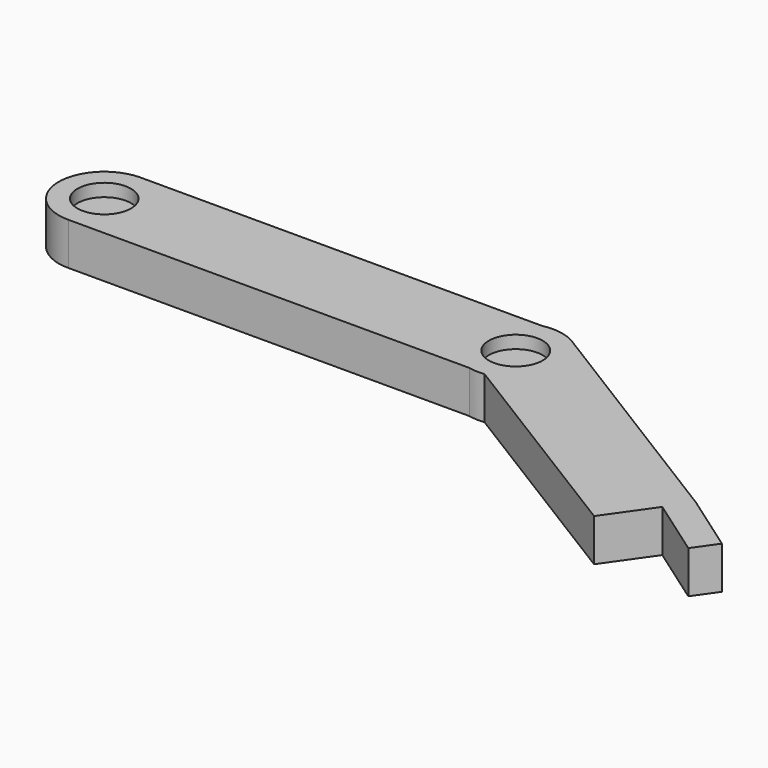
from build123d import *

# Parameters (mm, degrees)
F0_R     = 1.603882
F0_R_2   = 1.61137
F1_DEPTH = 2.54
F2_DEPTH = 1.778


with BuildPart() as f1:
    # F0 (on Top) → F1 (new body)
    with BuildSketch(Plane.XY):
        with BuildLine():
            Line((-60.266762, 42.779693), (-60.404075, 42.779693))
            ThreePointArc((-60.404075, 42.779693), (-63.060503, 40.009018), (-60.311945, 37.329712))
            ThreePointArc((-60.311945, 37.329712), (-58.399937, 38.136201), (-57.609945, 40.055084))
            ThreePointArc((-57.609945, 40.055084), (-58.384095, 41.957857), (-60.266762, 42.779693))
        make_face()
        with Locations((-60.335419, 40.055084)):
            Circle(F0_R, mode=Mode.SUBTRACT)
        with BuildLine():
            ThreePointArc((-60.266762, 42.779693), (-60.335419, 42.780558), (-60.404075, 42.779693))
            Line((-60.404075, 42.779693), (-60.266762, 42.779693))
        make_face()
        with BuildLine():
            ThreePointArc((-57.609945, 40.055084), (-58.399937, 38.136201), (-60.311945, 37.329712))
            Line((-60.311945, 37.329712), (-36.290015, 37.329712))
            ThreePointArc((-36.290015, 37.329712), (-38.482461, 40.054702), (-36.290015, 42.779693))
            Line((-36.290015, 42.779693), (-60.266762, 42.779693))
            ThreePointArc((-60.266762, 42.779693), (-58.384095, 41.957857), (-57.609945, 40.055084))
        make_face()
        with BuildLine():
            ThreePointArc((-36.290015, 42.779693), (-38.482461, 40.054702), (-36.290015, 37.329712))
            Line((-36.290015, 37.329712), (-35.418566, 37.329712))
            Line((-35.418566, 37.329712), (-35.348489, 37.286363))
            ThreePointArc((-35.348489, 37.286363), (-33.602011, 38.207847), (-32.903125, 40.054702))
            ThreePointArc((-32.903125, 40.054702), (-33.255539, 41.411919), (-34.223739, 42.426226))
            ThreePointArc((-34.223739, 42.426226), (-35.222413, 42.804428), (-36.290015, 42.779693))
        make_face()
        with Locations((-35.692793, 40.054702)):
            Circle(F0_R_2, mode=Mode.SUBTRACT)
        with BuildLine():
            Line((-35.418566, 37.329712), (-36.290015, 37.329712))
            ThreePointArc((-36.290015, 37.329712), (-35.821096, 37.267986), (-35.348489, 37.286363))
            Line((-35.348489, 37.286363), (-35.418566, 37.329712))
        make_face()
        with BuildLine():
            ThreePointArc((-32.903125, 40.054702), (-33.602011, 38.207847), (-35.348489, 37.286363))
            Line((-35.348489, 37.286363), (-22.365304, 29.255198))
            Line((-22.365304, 29.255198), (-20.454693, 31.974146))
            Line((-20.454693, 31.974146), (-19.513331, 33.313777))
            Line((-19.513331, 33.313777), (-34.223739, 42.426226))
            ThreePointArc((-34.223739, 42.426226), (-33.255539, 41.411919), (-32.903125, 40.054702))
        make_face()
        Polygon((-15.95488, 30.813246), (-19.513331, 33.313777), (-20.454693, 31.974146), (-16.896242, 29.473615), align=None)
    extrude(amount=F1_DEPTH)

    # F0 (on Top) → F2 (join)
    with BuildSketch(Plane.XY):
        with Locations((-60.335419, 40.055084)):
            Circle(F0_R)
        with Locations((-35.692793, 40.054702)):
            Circle(F0_R_2)
    extrude(amount=F2_DEPTH)


solid = f1.part
